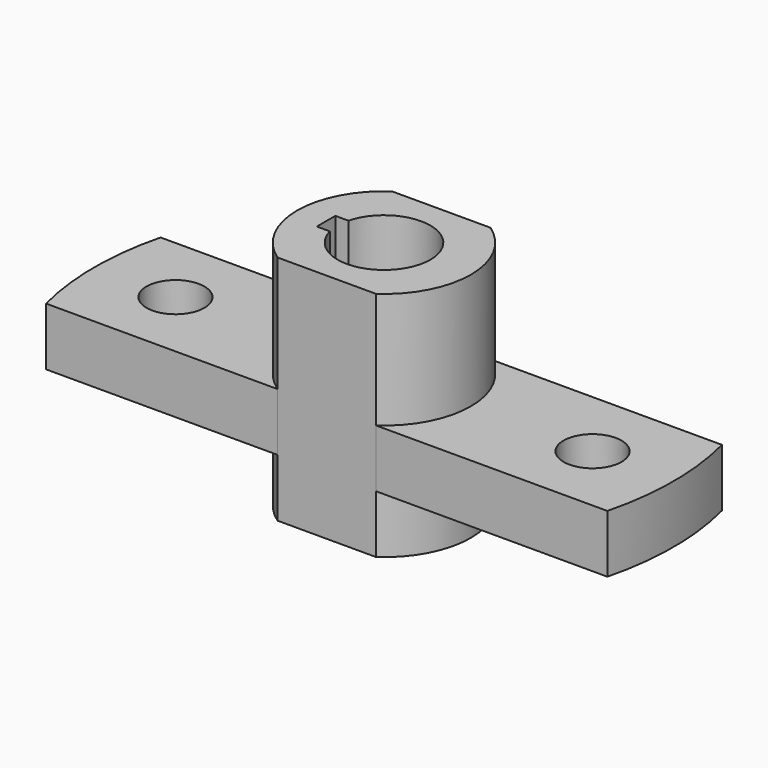
from build123d import *

# Parameters (mm, degrees)
F0_R     = 5
F1_DEPTH = 10
F2_DEPTH = 20


with BuildPart() as f1:
    # F0 (on Top) → F1 (new body)
    with BuildSketch(Plane.XY):
        with BuildLine():
            ThreePointArc((51.495306, 22.602154), (57.994143, 10.243747), (51.495306, -2.11466))
            Line((51.495306, -2.11466), (91.442773, -2.11466))
            ThreePointArc((91.442773, -2.11466), (92.994143, 10.243747), (91.442773, 22.602154))
            Line((91.442773, 22.602154), (51.495306, 22.602154))
        make_face()
        with Locations((78.994143, 10.243747)):
            Circle(F0_R, mode=Mode.SUBTRACT)
        with BuildLine():
            ThreePointArc((-5.454487, 22.602154), (-7.005857, 10.243747), (-5.454487, -2.11466))
            Line((-5.454487, -2.11466), (34.49298, -2.11466))
            ThreePointArc((34.49298, -2.11466), (27.994143, 10.243747), (34.49298, 22.602154))
            Line((34.49298, 22.602154), (-5.454487, 22.602154))
        make_face()
        with Locations((6.994143, 10.243747)):
            Circle(F0_R, mode=Mode.SUBTRACT)
    extrude(amount=-F1_DEPTH)


with BuildPart() as f2:
    # F0 (on Top) → F2 (new body, symmetric)
    with BuildSketch(Plane.XY):
        with BuildLine():
            ThreePointArc((34.49298, 22.602154), (27.994143, 10.243747), (34.49298, -2.11466))
            Line((34.49298, -2.11466), (51.495306, -2.11466))
            ThreePointArc((51.495306, -2.11466), (57.994143, 10.243747), (51.495306, 22.602154))
            Line((51.495306, 22.602154), (34.49298, 22.602154))
        make_face()
        with BuildLine():
            ThreePointArc((35.248176, 12.243747), (44.002177, 18.179984), (50.994143, 10.243747))
            ThreePointArc((50.994143, 10.243747), (44.002177, 2.307509), (35.248176, 8.243747))
            Line((35.248176, 8.243747), (32.994143, 8.243747))
            Line((32.994143, 8.243747), (32.994143, 12.243747))
            Line((32.994143, 12.243747), (35.248176, 12.243747))
        make_face(mode=Mode.SUBTRACT)
    extrude(amount=F2_DEPTH, both=True)


solid = Compound([f1.part, f2.part])
